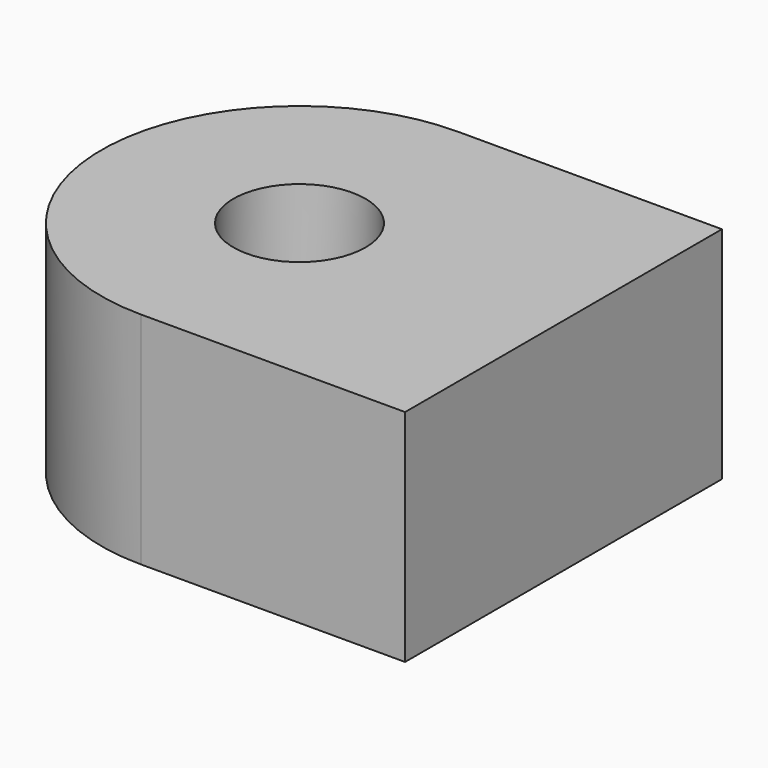
from build123d import *

# Parameters (mm, degrees)
F1_DEPTH = 5
F2_R     = 1.5
F3_DEPTH = 18.5
F4_R     = 3
F5_DEPTH = 3


with BuildPart() as f1:
    # F0 (on Top) → F1 (new body)
    with BuildSketch(Plane.XY):
        with BuildLine():
            ThreePointArc((0, 4.5), (3.181981, 3.181981), (4.5, 0))
            ThreePointArc((4.5, 0), (3.181981, -3.181981), (0, -4.5))
            Line((0, -4.5), (6, -4.5))
            Line((6, -4.5), (6, 4.5))
            Line((6, 4.5), (0, 4.5))
        make_face()
        with BuildLine():
            ThreePointArc((0, -4.5), (3.181981, -3.181981), (4.5, 0))
            ThreePointArc((4.5, 0), (3.181981, 3.181981), (0, 4.5))
            ThreePointArc((0, 4.5), (-4.5, 0), (0, -4.5))
        make_face()
    extrude(amount=F1_DEPTH)

    # F2 (on Top) → F3 (cut)
    with BuildSketch(Plane.XY):
        Circle(F2_R)
    extrude(amount=F3_DEPTH, mode=Mode.SUBTRACT)

    # F4 (on Top) → F5 (cut)
    with BuildSketch(Plane.XY):
        Circle(F4_R)
    extrude(amount=F5_DEPTH, mode=Mode.SUBTRACT)


solid = f1.part
